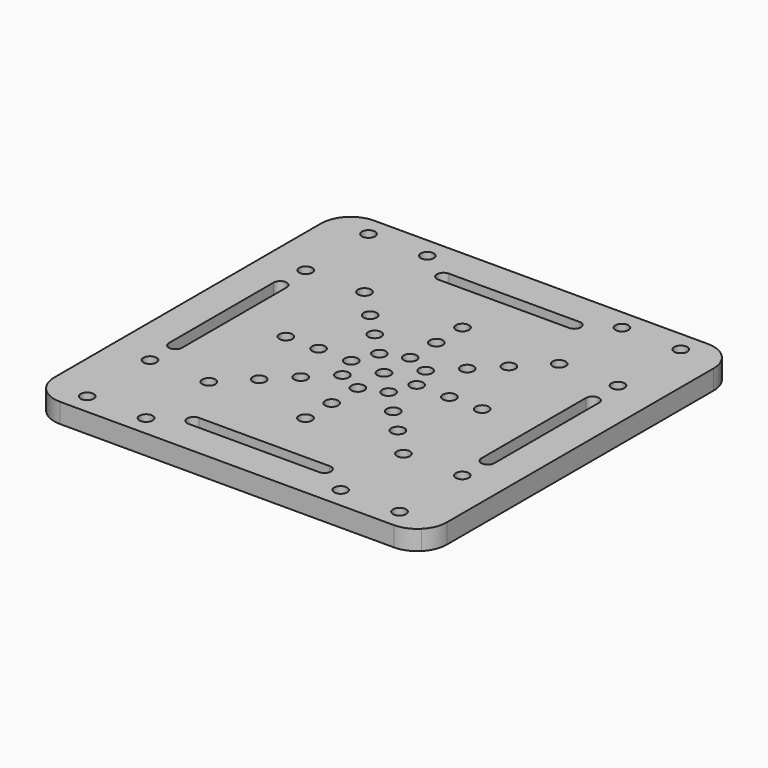
from build123d import *

# Parameters (mm, degrees)
F0_W     = 120
F0_H     = 6
F1_DEPTH = 120
F3_D     = 4
F3_DEPTH = 8
F3_TIP   = 1.2017212381
F4_DEPTH = 8
F5_DEPTH = 6


with BuildPart() as f1:
    # F0 (on Front) → F1 (new body)
    with BuildSketch(Plane.XZ):
        with Locations((60, 3)):
            Rectangle(F0_W, F0_H)
    extrude(amount=F1_DEPTH)

    # F3
    with Locations(Plane(origin=(0, 0, 0), x_dir=(1, 0, 0), z_dir=(0, 0, -1))):
        with Locations((12.2512626585, 113.7487373415), (12.2512626585, 89.7487373415), (30.2512626585, 89.7487373415), (30.2512626585, 113.7487373415), (89.7487373415, 113.7487373415), (89.7487373415, 89.7487373415), (107.7487373415, 89.7487373415), (107.7487373415, 113.7487373415), (107.7487373415, 30.2512626585), (89.7487373415, 30.2512626585), (89.7487373415, 6.2512626585), (107.7487373415, 6.2512626585), (30.2512626585, 6.2512626585), (12.2512626585, 30.2512626585), (30.2512626585, 30.2512626585), (12.2512626585, 6.2512626585), (38.7867965644, 38.7867965644), (45.8578643763, 45.8578643763), (30, 60), (40, 60), (45.8578643763, 74.1421356237), (38.7867965644, 81.2132034356), (60, 80), (60, 90), (81.2132034356, 81.2132034356), (74.1421356237, 74.1421356237), (80, 60), (90, 60), (81.2132034356, 38.7867965644), (74.1421356237, 45.8578643763), (60, 40), (60, 30), (52.9289321881, 67.0710678119), (60, 60), (50, 60), (52.9289321881, 52.9289321881), (60, 50), (67.0710678119, 52.9289321881), (70, 60), (67.0710678119, 67.0710678119), (60, 70)):
            Hole(F3_D / 2, depth=F3_DEPTH)
            with Locations((0, 0, -(F3_DEPTH + F3_TIP / 2))):  # 118° drill point
                Cone(0, F3_D / 2, F3_TIP, mode=Mode.SUBTRACT)

    # F2 (on Top) → F4 (cut)
    with BuildSketch(Plane.XY):
        with BuildLine():
            Line((10.2512626585, -40), (10.2512626585, -60))
            Line((10.2512626585, -60), (14.2512626585, -60))
            Line((14.2512626585, -60), (14.2512626585, -40))
            ThreePointArc((14.2512626585, -40), (12.2512626585, -38), (10.2512626585, -40))
        make_face()
        with BuildLine():
            Line((14.2512626585, -60), (10.2512626585, -60))
            Line((10.2512626585, -60), (10.2512626585, -80))
            ThreePointArc((10.2512626585, -80), (12.2512626585, -82), (14.2512626585, -80))
            Line((14.2512626585, -80), (14.2512626585, -60))
        make_face()
        with BuildLine():
            Line((60, -109.7487373415), (60, -105.7487373415))
            Line((60, -105.7487373415), (40, -105.7487373415))
            ThreePointArc((40, -105.7487373415), (38, -107.7487373415), (40, -109.7487373415))
            Line((40, -109.7487373415), (60, -109.7487373415))
        make_face()
        with BuildLine():
            Line((80, -105.7487373415), (60, -105.7487373415))
            Line((60, -105.7487373415), (60, -109.7487373415))
            Line((60, -109.7487373415), (80, -109.7487373415))
            ThreePointArc((80, -109.7487373415), (82, -107.7487373415), (80, -105.7487373415))
        make_face()
        with BuildLine():
            Line((105.7487373415, -40), (105.7487373415, -60))
            Line((105.7487373415, -60), (109.7487373415, -60))
            Line((109.7487373415, -60), (109.7487373415, -40))
            ThreePointArc((109.7487373415, -40), (107.7487373415, -38), (105.7487373415, -40))
        make_face()
        with BuildLine():
            Line((109.7487373415, -60), (105.7487373415, -60))
            Line((105.7487373415, -60), (105.7487373415, -80))
            ThreePointArc((105.7487373415, -80), (107.7487373415, -82), (109.7487373415, -80))
            Line((109.7487373415, -80), (109.7487373415, -60))
        make_face()
        with BuildLine():
            Line((40, -14.2512626585), (60, -14.2512626585))
            Line((60, -14.2512626585), (60, -10.2512626585))
            Line((60, -10.2512626585), (40, -10.2512626585))
            ThreePointArc((40, -10.2512626585), (38, -12.2512626585), (40, -14.2512626585))
        make_face()
        with BuildLine():
            Line((60, -10.2512626585), (60, -14.2512626585))
            Line((60, -14.2512626585), (80, -14.2512626585))
            ThreePointArc((80, -14.2512626585), (82, -12.2512626585), (80, -10.2512626585))
            Line((80, -10.2512626585), (60, -10.2512626585))
        make_face()
    extrude(amount=F4_DEPTH, mode=Mode.SUBTRACT)

    # F2 (on Top) → F5 (cut)
    with BuildSketch(Plane.XY):
        with BuildLine():
            Line((120, -120), (120, -111))
            ThreePointArc((120, -111), (119.3149157926, -114.4441508913), (117.3639610307, -117.3639610307))
            Line((117.3639610307, -117.3639610307), (120, -120))
        make_face()
        with BuildLine():
            ThreePointArc((117.3639610307, -117.3639610307), (114.4441508913, -119.3149157926), (111, -120))
            Line((111, -120), (120, -120))
            Line((120, -120), (117.3639610307, -117.3639610307))
        make_face()
        with BuildLine():
            Line((2.6360389693, -117.3639610307), (0, -120))
            Line((0, -120), (9, -120))
            ThreePointArc((9, -120), (5.5558491087, -119.3149157926), (2.6360389693, -117.3639610307))
        make_face()
        with BuildLine():
            ThreePointArc((2.6360389693, -117.3639610307), (0.6850842074, -114.4441508913), (0, -111))
            Line((0, -111), (0, -120))
            Line((0, -120), (2.6360389693, -117.3639610307))
        make_face()
        with BuildLine():
            ThreePointArc((117.3639610307, -2.6360389693), (119.3149157926, -5.5558491087), (120, -9))
            Line((120, -9), (120, 0))
            Line((120, 0), (117.3639610307, -2.6360389693))
        make_face()
        with BuildLine():
            Line((120, 0), (111, 0))
            ThreePointArc((111, 0), (114.4441508913, -0.6850842074), (117.3639610307, -2.6360389693))
            Line((117.3639610307, -2.6360389693), (120, 0))
        make_face()
        with BuildLine():
            Line((0, 0), (0, -9))
            ThreePointArc((0, -9), (0.6850842074, -5.5558491087), (2.6360389693, -2.6360389693))
            Line((2.6360389693, -2.6360389693), (0, 0))
        make_face()
        with BuildLine():
            Line((9, 0), (0, 0))
            Line((0, 0), (2.6360389693, -2.6360389693))
            ThreePointArc((2.6360389693, -2.6360389693), (5.5558491087, -0.6850842074), (9, 0))
        make_face()
    extrude(amount=F5_DEPTH, mode=Mode.SUBTRACT)


solid = f1.part
